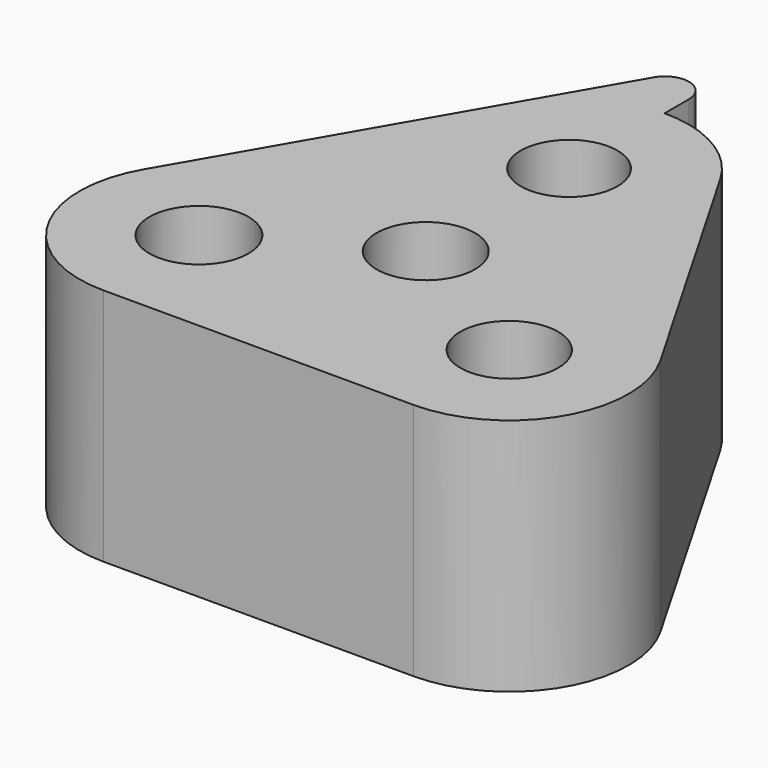
from build123d import *

# Parameters (mm, degrees)
F0_R     = 4.15
F0_R_2   = 4.1
F0_R_3   = 4.125
F0_R_4   = 4.05
F1_DEPTH = 20
F2_R     = 2


with BuildPart() as f1:
    # F0 (on Top) → F1 (new body)
    with BuildSketch(Plane.XY):
        with BuildLine():
            ThreePointArc((0, 25), (-5, 23.660254), (-8.660254, 20))
            Line((-8.660254, 20), (-21.650635, -2.5))
            ThreePointArc((-21.650635, -2.5), (-21.650635, -12.5), (-12.990381, -17.5))
            Line((-12.990381, -17.5), (12.990381, -17.5))
            ThreePointArc((12.990381, -17.5), (21.650635, -12.5), (21.650635, -2.5))
            Line((21.650635, -2.5), (8.660254, 20))
            ThreePointArc((8.660254, 20), (5, 23.660254), (0, 25))
        make_face()
        with Locations((-12.990381, -7.5)):
            Circle(F0_R, mode=Mode.SUBTRACT)
        with Locations((12.990381, -7.5)):
            Circle(F0_R_2, mode=Mode.SUBTRACT)
        Circle(F0_R_3, mode=Mode.SUBTRACT)
        with Locations((0, 15)):
            Circle(F0_R_4, mode=Mode.SUBTRACT)
        with BuildLine():
            Line((0, 35), (-8.660254, 20))
            ThreePointArc((-8.660254, 20), (-5, 23.660254), (0, 25))
            Line((0, 25), (0, 35))
        make_face()
    extrude(amount=F1_DEPTH)

    # F2
    f2_edges = [f1.edges().sort_by_distance(p)[0] for p in [
        (0, 35, 10),
    ]]
    fillet(f2_edges, radius=F2_R)


solid = f1.part
